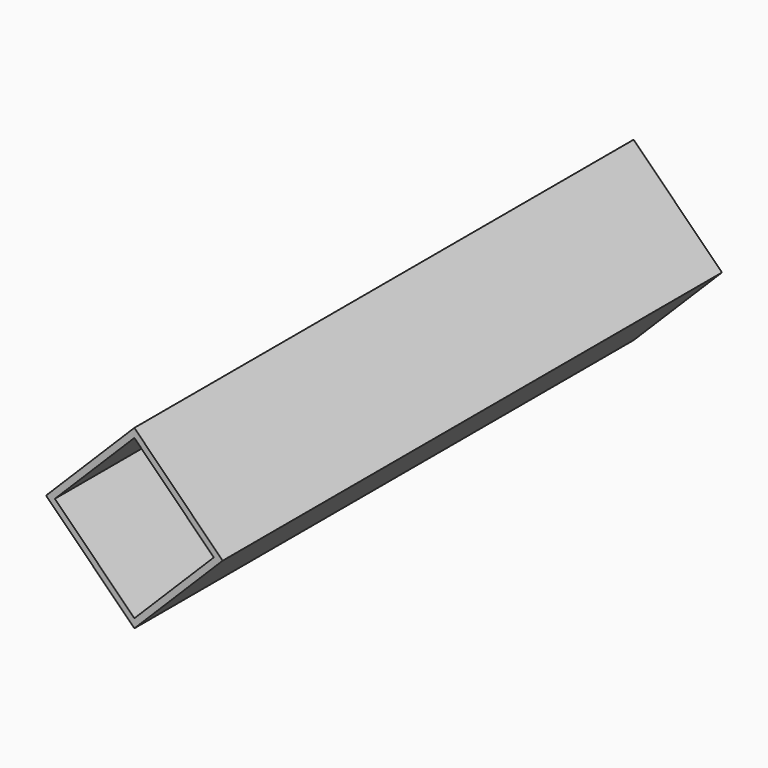
from build123d import *

# Parameters (mm, degrees)
F1_DEPTH = 100


with BuildPart() as f1:
    # F0 (on Front) → F1 (new body)
    with BuildSketch(Plane.XZ):
        Polygon((14.142136, 0), (0, 14.142136), (-14.142136, 0), (0, -14.142136), align=None)
        Polygon((0, 12.727922), (12.727922, 0), (0, -12.727922), (-12.727922, 0), align=None, mode=Mode.SUBTRACT)
    extrude(amount=F1_DEPTH)


solid = f1.part
